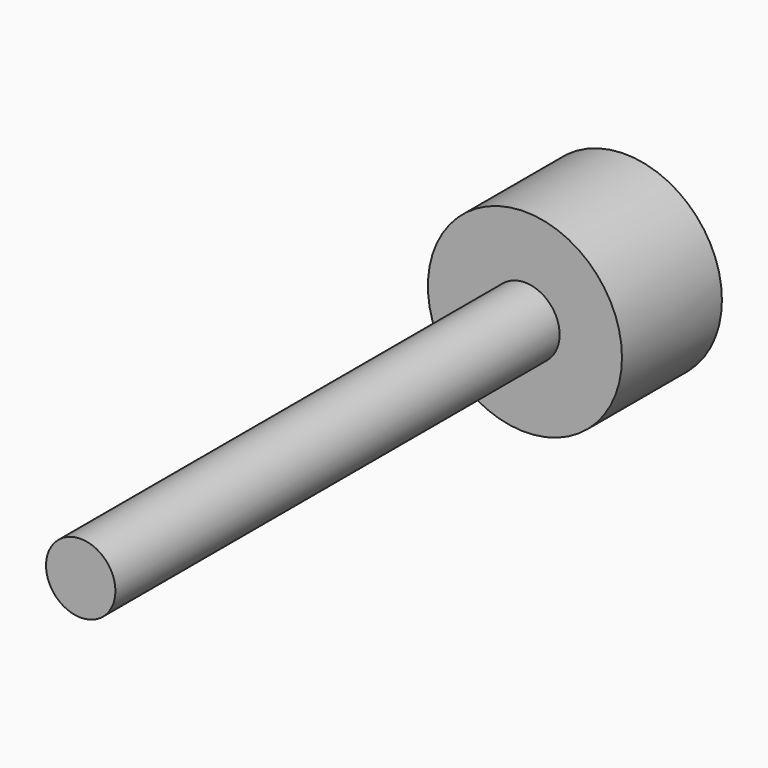
from build123d import *

# Parameters (mm, degrees)
F0_R     = 8.876834
F1_DEPTH = 11.43
F3_R     = 3.175
F4_DEPTH = 50.8


with BuildPart() as f1:
    # F0 (on Front) → F1 (new body)
    with BuildSketch(Plane.XZ):
        Circle(F0_R)
    extrude(amount=F1_DEPTH)


with BuildPart() as f4:
    # F3 (on face) → F4 (new body)
    with BuildSketch(Plane.XZ.offset(11.43)):
        Circle(F3_R)
    extrude(amount=F4_DEPTH)


solid = Compound([f1.part, f4.part])
